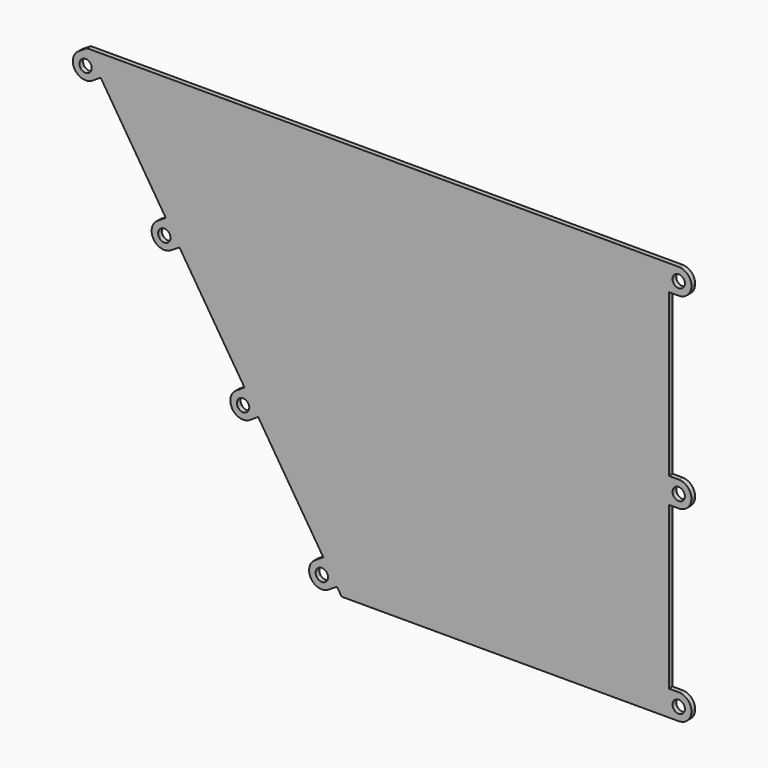
from build123d import *

# Parameters (mm, degrees)
PAD_DEPTH                  = 1.28
SKETCH005_W                = 145
SKETCH005_H                = 1.6
SKETCH005_W_2              = 82.424179
PAD003_DEPTH               = 5
PAD004_DEPTH               = 1.28
PAD004_MIRRORED_2_DEPTH    = 1.28
LINEARPATTERN_COUNT        = 3
LINEARPATTERN_PITCH        = 51.5
PAD005_DEPTH               = 1.28
PAD005_MIRRORED001_2_DEPTH = 1.28
LINEARPATTERN001_COUNT     = 4
LINEARPATTERN001_PITCH     = 40.3390943124


with BuildPart() as part:
    # Sketch → Pad (new body)
    with BuildSketch(Plane.XZ):
        Polygon((0, 0), (0, 110), (-160, 110), (-90, 0), align=None)
    extrude(amount=-PAD_DEPTH)

    # Sketch005 (on Face6 of Pad) → Pad003 (join)
    with BuildSketch(Plane(origin=(0, 1.28, 0), x_dir=(1, 0, 0), z_dir=(0, 1, 0))):
        with Locations((-77.5, -105.0479535608)):
            Rectangle(SKETCH005_W, SKETCH005_H)
        with Locations((-46.2120895, -5.171919)):
            Rectangle(SKETCH005_W_2, SKETCH005_H)
    extrude(amount=PAD003_DEPTH)

    # Sketch006 (on Face5 of Pad003) → Pad004 (join)
    with BuildSketch(Plane(origin=(0, 1.28, 0), x_dir=(1, 0, 0), z_dir=(0, 1, 0))):
        with BuildLine():
            Line((0, -110), (0, -106.5))
            Line((0, -106.5), (1, -106.5))
            ThreePointArc((1, -106.5), (2.7, -108.2), (4.4, -106.5))
            Line((4.4, -106.5), (6.2, -106.5))
            ThreePointArc((2.6999832282, -110), (5.1748678044, -108.9748796639), (6.2, -106.5))
            Line((0, -110), (2.6999832282, -110))
        make_face()
    pad004 = extrude(amount=-PAD004_DEPTH)

    # Sketch006 Mirrored 2 → Pad004 Mirrored 2 (add)
    with BuildSketch(Plane(origin=(0, 1.28, 213), x_dir=(1, 0, 0), z_dir=(0, -1, 0))):
        with BuildLine():
            Line((0, -110), (0, -106.5))
            Line((0, -106.5), (1, -106.5))
            ThreePointArc((1, -106.5), (2.7, -108.2), (4.4, -106.5))
            Line((4.4, -106.5), (6.2, -106.5))
            ThreePointArc((2.6999832282, -110), (5.1748678044, -108.9748796639), (6.2, -106.5))
            Line((0, -110), (2.6999832282, -110))
        make_face()
    pad004_mirrored_2 = extrude(amount=PAD004_MIRRORED_2_DEPTH)

    # LinearPattern: Pad004, Pad004 Mirrored 2 ×3
    with Locations(*[(0, 0, -i * LINEARPATTERN_PITCH) for i in range(1, LINEARPATTERN_COUNT)]):
        add(pad004)
        add(pad004_mirrored_2)

    # Sketch007 (on Face5 of Pad003) → Pad005 (join)
    with BuildSketch(Plane(origin=(0, 1.28, 0), x_dir=(1, 0, 0), z_dir=(0, 1, 0))):
        with BuildLine():
            Line((-160, -110), (-158.1209357773, -107.0471847929))
            Line((-158.1209357773, -107.0471847929), (-158.9645972651, -106.5103093007))
            ThreePointArc((-161.8330463233, -104.6849326273), (-161.3115101309, -107.0318454932), (-158.9645972651, -106.5103093007))
            Line((-161.8330463233, -104.6849326273), (-163.3516370013, -103.7185567413))
            ThreePointArc((-163.3516370013, -103.7185567413), (-163.8154739704, -106.3568889713), (-162.2778663036, -108.5504487158))
            Line((-160, -110), (-162.2778663036, -108.5504487159))
        make_face()
    pad005 = extrude(amount=-PAD005_DEPTH)

    # Sketch007 Mirrored001 2 → Pad005 Mirrored001 2 (add)
    with BuildSketch(Plane(origin=(-188.1242244958, 1.28, 295.6237813506), x_dir=(0.4235294118, 0, 0.9058823529), z_dir=(0, -1, 0))):
        with BuildLine():
            Line((-160, -110), (-158.1209357773, -107.0471847929))
            Line((-158.1209357773, -107.0471847929), (-158.9645972651, -106.5103093007))
            ThreePointArc((-161.8330463233, -104.6849326273), (-161.3115101309, -107.0318454932), (-158.9645972651, -106.5103093007))
            Line((-161.8330463233, -104.6849326273), (-163.3516370013, -103.7185567413))
            ThreePointArc((-163.3516370013, -103.7185567413), (-163.8154739704, -106.3568889713), (-162.2778663036, -108.5504487158))
            Line((-160, -110), (-162.2778663036, -108.5504487159))
        make_face()
    pad005_mirrored001_2 = extrude(amount=PAD005_MIRRORED001_2_DEPTH)

    # LinearPattern001: Pad005, Pad005 Mirrored001 2 ×4
    with Locations(*[Vector(0.5368754922, 0, -0.8436614877) * (i * LINEARPATTERN001_PITCH) for i in range(1, LINEARPATTERN001_COUNT)]):
        add(pad005)
        add(pad005_mirrored001_2)


with BuildPart() as part_1:
    # Body placement: moved
    add(part.part.moved(Location((0, 55, 0))))


solid = part_1.part
